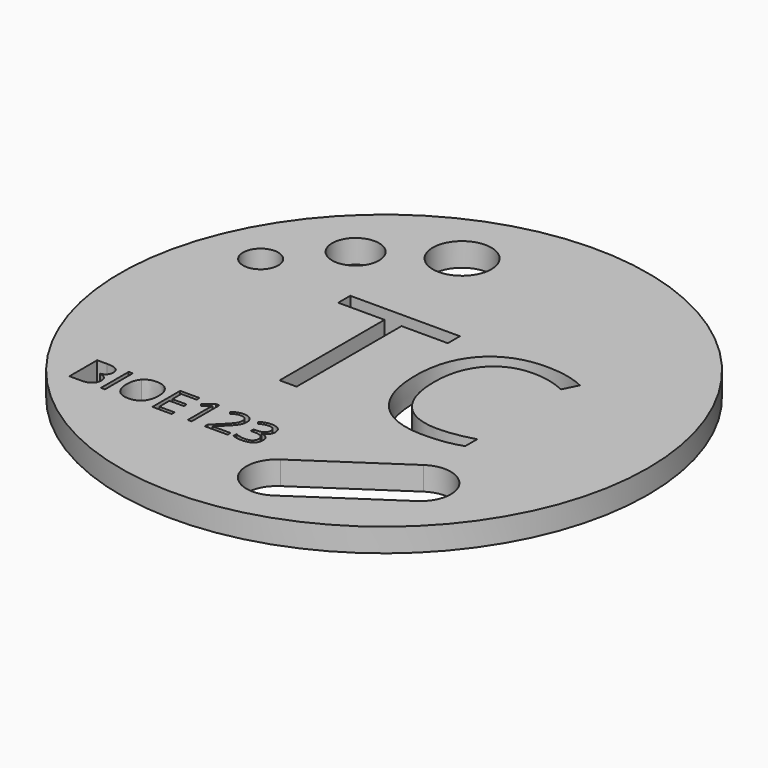
from build123d import *

# Parameters (mm, degrees)
F0_R     = 22.5
F0_W     = 0.3439178534
F0_H     = 2.9592479699
F0_R_2   = 1.5
F0_R_3   = 2
F0_R_4   = 2.5
F1_DEPTH = 2


with BuildPart() as f1:
    # F0 (on Top) → F1 (new body)
    with BuildSketch(Plane.XY):
        Circle(F0_R)
        with BuildLine():
            Line((-15.8512231653, -13.7136103585), (-15.8512231653, -10.7543623887))
            Line((-15.8512231653, -10.7543623887), (-15.0150688363, -10.7543623887))
            add(Edge.make_bspline(
                [(-15.0150688363, -10.7543623887), (-14.4263281043, -10.7543623887), (-14.1630463578, -10.9305312326)],
                knots=[0, 0, 0, 1, 1, 1], degree=2))
            add(Edge.make_bspline(
                [(-14.1630463578, -10.9305312326), (-13.8997646113, -11.1067000765), (-13.8997646113, -11.4868879859)],
                knots=[0, 0, 0, 1, 1, 1], degree=2))
            add(Edge.make_bspline(
                [(-13.8997646113, -11.4868879859), (-13.8997646113, -11.7504935722), (-14.0464640346, -11.9214809795)],
                knots=[0, 0, 0, 1, 1, 1], degree=2))
            add(Edge.make_bspline(
                [(-14.0464640346, -11.9214809795), (-14.193163458, -12.0924683869), (-14.4749040723, -12.1429873936)],
                knots=[0, 0, 0, 1, 1, 1], degree=2))
            Line((-14.4749040723, -12.1429873936), (-14.4749040723, -12.1630654603))
            add(Edge.make_bspline(
                [(-14.4749040723, -12.1630654603), (-13.8006696366, -12.2783524244), (-13.8006696366, -12.8716269134)],
                knots=[0, 0, 0, 1, 1, 1], degree=2))
            add(Edge.make_bspline(
                [(-13.8006696366, -12.8716269134), (-13.8006696366, -13.2680068122), (-14.0688089799, -13.4908085854)],
                knots=[0, 0, 0, 1, 1, 1], degree=2))
            add(Edge.make_bspline(
                [(-14.0688089799, -13.4908085854), (-14.3369483232, -13.7136103585), (-14.8188219256, -13.7136103585)],
                knots=[0, 0, 0, 1, 1, 1], degree=2))
            Line((-14.8188219256, -13.7136103585), (-15.8512231653, -13.7136103585))
        make_face(mode=Mode.SUBTRACT)
        with Locations((-12.9933370486, -12.2339863736)):
            Rectangle(F0_W, F0_H, mode=Mode.SUBTRACT)
        with BuildLine():
            add(Edge.make_bspline(
                [(-9.7993052335, -11.1125291926), (-9.4411384295, -11.5173289259), (-9.4411384295, -12.2297764564)],
                knots=[0, 0, 0, 1, 1, 1], degree=2))
            add(Edge.make_bspline(
                [(-9.4411384295, -12.2297764564), (-9.4411384295, -12.9402809482), (-9.8006005926, -13.3473475599)],
                knots=[0, 0, 0, 1, 1, 1], degree=2))
            add(Edge.make_bspline(
                [(-9.8006005926, -13.3473475599), (-10.1600627557, -13.7544141716), (-10.7993224945, -13.7544141716)],
                knots=[0, 0, 0, 1, 1, 1], degree=2))
            add(Edge.make_bspline(
                [(-10.7993224945, -13.7544141716), (-11.4528311838, -13.7544141716), (-11.8080834297, -13.3544720352)],
                knots=[0, 0, 0, 1, 1, 1], degree=2))
            add(Edge.make_bspline(
                [(-11.8080834297, -13.3544720352), (-12.1633356756, -12.9545298988), (-12.1633356756, -12.2258903789)],
                knots=[0, 0, 0, 1, 1, 1], degree=2))
            add(Edge.make_bspline(
                [(-12.1633356756, -12.2258903789), (-12.1633356756, -11.5030799753), (-11.8071119103, -11.1054047173)],
                knots=[0, 0, 0, 1, 1, 1], degree=2))
            add(Edge.make_bspline(
                [(-11.8071119103, -11.1054047173), (-11.4508881451, -10.7077294594), (-10.795436417, -10.7077294594)],
                knots=[0, 0, 0, 1, 1, 1], degree=2))
            add(Edge.make_bspline(
                [(-10.795436417, -10.7077294594), (-10.1574720374, -10.7077294594), (-9.7993052335, -11.1125291926)],
                knots=[0, 0, 0, 1, 1, 1], degree=2))
        make_face(mode=Mode.SUBTRACT)
        Polygon((-7.1321607511, -13.4059625613), (-7.1321607511, -13.7136103585), (-8.781800624, -13.7136103585), (-8.781800624, -10.7543623887), (-7.1321607511, -10.7543623887), (-7.1321607511, -11.0600671472), (-8.4378827706, -11.0600671472), (-8.4378827706, -12.0134514789), (-7.211177659, -12.0134514789), (-7.211177659, -12.3172131988), (-8.4378827706, -12.3172131988), (-8.4378827706, -13.4059625613), align=None, mode=Mode.SUBTRACT)
        with BuildLine():
            Line((-5.4365356285, -10.7543623887), (-5.4365356285, -13.7136103585))
            Line((-5.4365356285, -13.7136103585), (-5.7642614926, -13.7136103585))
            Line((-5.7642614926, -13.7136103585), (-5.7642614926, -11.6047656683))
            add(Edge.make_bspline(
                [(-5.7642614926, -11.6047656683), (-5.7642614926, -11.341160082), (-5.7480695032, -11.1067000765)],
                knots=[0, 0, 0, 1, 1, 1], degree=2))
            add(Edge.make_bspline(
                [(-5.7480695032, -11.1067000765), (-5.7901686755, -11.1494469283), (-5.8429545607, -11.1957560178)],
                knots=[0, 0, 0, 1, 1, 1], degree=2))
            add(Edge.make_bspline(
                [(-5.8429545607, -11.1957560178), (-5.8957404459, -11.2420651073), (-6.3245043234, -11.5905167176)],
                knots=[0, 0, 0, 1, 1, 1], degree=2))
            Line((-6.3245043234, -11.5905167176), (-6.502616206, -11.3599427896))
            Line((-6.502616206, -11.3599427896), (-5.719571602, -10.7543623887))
            Line((-5.719571602, -10.7543623887), (-5.4365356285, -10.7543623887))
        make_face(mode=Mode.SUBTRACT)
        with BuildLine():
            Line((-2.3658867721, -13.4020764838), (-2.3658867721, -13.7136103585))
            Line((-2.3658867721, -13.7136103585), (-4.3108685303, -13.7136103585))
            Line((-4.3108685303, -13.7136103585), (-4.3108685303, -13.4240975893))
            Line((-4.3108685303, -13.4240975893), (-3.5317100038, -12.6410529853))
            add(Edge.make_bspline(
                [(-3.5317100038, -12.6410529853), (-3.1754862385, -12.2802954631), (-3.0621423132, -12.1264715645)],
                knots=[0, 0, 0, 1, 1, 1], degree=2))
            add(Edge.make_bspline(
                [(-3.0621423132, -12.1264715645), (-2.9487983879, -11.9726476658), (-2.8921264253, -11.8269197619)],
                knots=[0, 0, 0, 1, 1, 1], degree=2))
            add(Edge.make_bspline(
                [(-2.8921264253, -11.8269197619), (-2.8354544626, -11.6811918579), (-2.8354544626, -11.5134428484)],
                knots=[0, 0, 0, 1, 1, 1], degree=2))
            add(Edge.make_bspline(
                [(-2.8354544626, -11.5134428484), (-2.8354544626, -11.2763921246), (-2.9792393279, -11.137788696)],
                knots=[0, 0, 0, 1, 1, 1], degree=2))
            add(Edge.make_bspline(
                [(-2.9792393279, -11.137788696), (-3.1230241931, -10.9991852673), (-3.3782099449, -10.9991852673)],
                knots=[0, 0, 0, 1, 1, 1], degree=2))
            add(Edge.make_bspline(
                [(-3.3782099449, -10.9991852673), (-3.5621509437, -10.9991852673), (-3.7273092349, -11.0600671472)],
                knots=[0, 0, 0, 1, 1, 1], degree=2))
            add(Edge.make_bspline(
                [(-3.7273092349, -11.0600671472), (-3.8924675261, -11.1209490271), (-4.0945435529, -11.2809258817)],
                knots=[0, 0, 0, 1, 1, 1], degree=2))
            Line((-4.0945435529, -11.2809258817), (-4.2726554355, -11.0522949923))
            add(Edge.make_bspline(
                [(-4.2726554355, -11.0522949923), (-3.8639696248, -10.7122632164), (-3.3820960224, -10.7122632164)],
                knots=[0, 0, 0, 1, 1, 1], degree=2))
            add(Edge.make_bspline(
                [(-3.3820960224, -10.7122632164), (-2.9649903773, -10.7122632164), (-2.7282634933, -10.9256736358)],
                knots=[0, 0, 0, 1, 1, 1], degree=2))
            add(Edge.make_bspline(
                [(-2.7282634933, -10.9256736358), (-2.4915366093, -11.1390840551), (-2.4915366093, -11.4991938978)],
                knots=[0, 0, 0, 1, 1, 1], degree=2))
            add(Edge.make_bspline(
                [(-2.4915366093, -11.4991938978), (-2.4915366093, -11.7809345122), (-2.6495704251, -12.0561983308)],
                knots=[0, 0, 0, 1, 1, 1], degree=2))
            add(Edge.make_bspline(
                [(-2.6495704251, -12.0561983308), (-2.807604241, -12.3314621494), (-3.2402541959, -12.7524538719)],
                knots=[0, 0, 0, 1, 1, 1], degree=2))
            Line((-3.2402541959, -12.7524538719), (-3.887933769, -13.3858844945))
            Line((-3.887933769, -13.3858844945), (-3.887933769, -13.4020764838))
            Line((-3.887933769, -13.4020764838), (-2.3658867721, -13.4020764838))
        make_face(mode=Mode.SUBTRACT)
        with BuildLine():
            add(Edge.make_bspline(
                [(-0.3464218629, -10.9094816464), (-0.1074281004, -11.1067000765), (-0.1074281004, -11.4506179298)],
                knots=[0, 0, 0, 1, 1, 1], degree=2))
            add(Edge.make_bspline(
                [(-0.1074281004, -11.4506179298), (-0.1074281004, -11.7343015829), (-0.2664334356, -11.9143565042)],
                knots=[0, 0, 0, 1, 1, 1], degree=2))
            add(Edge.make_bspline(
                [(-0.2664334356, -11.9143565042), (-0.4254387708, -12.0944114256), (-0.7168945787, -12.1552933055)],
                knots=[0, 0, 0, 1, 1, 1], degree=2))
            Line((-0.7168945787, -12.1552933055), (-0.7168945787, -12.1714852948))
            add(Edge.make_bspline(
                [(-0.7168945787, -12.1714852948), (-0.3606708135, -12.2155275058), (-0.1887118868, -12.3978493056)],
                knots=[0, 0, 0, 1, 1, 1], degree=2))
            add(Edge.make_bspline(
                [(-0.1887118868, -12.3978493056), (-0.0167529601, -12.5801711055), (-0.0167529601, -12.8755129908)],
                knots=[0, 0, 0, 1, 1, 1], degree=2))
            add(Edge.make_bspline(
                [(-0.0167529601, -12.8755129908), (-0.0167529601, -13.2984477521), (-0.3101518068, -13.5264309619)],
                knots=[0, 0, 0, 1, 1, 1], degree=2))
            add(Edge.make_bspline(
                [(-0.3101518068, -13.5264309619), (-0.6035506534, -13.7544141716), (-1.1437154175, -13.7544141716)],
                knots=[0, 0, 0, 1, 1, 1], degree=2))
            add(Edge.make_bspline(
                [(-1.1437154175, -13.7544141716), (-1.3788231025, -13.7544141716), (-1.5740984938, -13.7187917951)],
                knots=[0, 0, 0, 1, 1, 1], degree=2))
            add(Edge.make_bspline(
                [(-1.5740984938, -13.7187917951), (-1.7693738852, -13.6831694186), (-1.9533148839, -13.5944373171)],
                knots=[0, 0, 0, 1, 1, 1], degree=2))
            Line((-1.9533148839, -13.5944373171), (-1.9533148839, -13.2744836079))
            add(Edge.make_bspline(
                [(-1.9533148839, -13.2744836079), (-1.7609540507, -13.3696925052), (-1.5433337141, -13.4192399925)],
                knots=[0, 0, 0, 1, 1, 1], degree=2))
            add(Edge.make_bspline(
                [(-1.5433337141, -13.4192399925), (-1.3257133775, -13.4687874799), (-1.1314095056, -13.4687874799)],
                knots=[0, 0, 0, 1, 1, 1], degree=2))
            add(Edge.make_bspline(
                [(-1.1314095056, -13.4687874799), (-0.3645568909, -13.4687874799), (-0.3645568909, -12.867740836)],
                knots=[0, 0, 0, 1, 1, 1], degree=2))
            add(Edge.make_bspline(
                [(-0.3645568909, -12.867740836), (-0.3645568909, -12.3288714311), (-1.2104264135, -12.3288714311)],
                knots=[0, 0, 0, 1, 1, 1], degree=2))
            Line((-1.2104264135, -12.3288714311), (-1.5018822214, -12.3288714311))
            Line((-1.5018822214, -12.3288714311), (-1.5018822214, -12.0400063414))
            Line((-1.5018822214, -12.0400063414), (-1.2065403361, -12.0400063414))
            add(Edge.make_bspline(
                [(-1.2065403361, -12.0400063414), (-0.860679444, -12.0400063414), (-0.6582795774, -11.8871539622)],
                knots=[0, 0, 0, 1, 1, 1], degree=2))
            add(Edge.make_bspline(
                [(-0.6582795774, -11.8871539622), (-0.4558797107, -11.7343015829), (-0.4558797107, -11.4629238417)],
                knots=[0, 0, 0, 1, 1, 1], degree=2))
            add(Edge.make_bspline(
                [(-0.4558797107, -11.4629238417), (-0.4558797107, -11.2465988643), (-0.6045221728, -11.1228920658)],
                knots=[0, 0, 0, 1, 1, 1], degree=2))
            add(Edge.make_bspline(
                [(-0.6045221728, -11.1228920658), (-0.7531646348, -10.9991852673), (-1.0083503867, -10.9991852673)],
                knots=[0, 0, 0, 1, 1, 1], degree=2))
            add(Edge.make_bspline(
                [(-1.0083503867, -10.9991852673), (-1.2026542586, -10.9991852673), (-1.3746131853, -11.0519711525)],
                knots=[0, 0, 0, 1, 1, 1], degree=2))
            add(Edge.make_bspline(
                [(-1.3746131853, -11.0519711525), (-1.546572112, -11.1047570378), (-1.7674308464, -11.2465988643)],
                knots=[0, 0, 0, 1, 1, 1], degree=2))
            Line((-1.7674308464, -11.2465988643), (-1.9371228946, -11.0199110137))
            add(Edge.make_bspline(
                [(-1.9371228946, -11.0199110137), (-1.7551249345, -10.8761261484), (-1.5174265312, -10.7941946824)],
                knots=[0, 0, 0, 1, 1, 1], degree=2))
            add(Edge.make_bspline(
                [(-1.5174265312, -10.7941946824), (-1.2797281278, -10.7122632164), (-1.0161225415, -10.7122632164)],
                knots=[0, 0, 0, 1, 1, 1], degree=2))
            add(Edge.make_bspline(
                [(-1.0161225415, -10.7122632164), (-0.5854156254, -10.7122632164), (-0.3464218629, -10.9094816464)],
                knots=[0, 0, 0, 1, 1, 1], degree=2))
        make_face(mode=Mode.SUBTRACT)
        with BuildLine():
            ThreePointArc((5.5131327112, -18.6424922176), (1.8943729824, -17.9318023112), (2.6050628888, -14.3130425824))
            Line((2.6050628888, -14.3130425824), (10.5440868888, -8.9804395824))
            ThreePointArc((10.5440868888, -8.9804395824), (13.2246049651, -8.8438625718), (14.6058509, -11.1451644))
            ThreePointArc((14.6058509, -11.1451644), (14.2994236282, -12.3716475651), (13.4521567112, -13.3098892176))
            Line((13.4521567112, -13.3098892176), (5.5131327112, -18.6424922176))
        make_face(mode=Mode.SUBTRACT)
        with Locations((-16.474186, 7.4392282)):
            Circle(F0_R_2, mode=Mode.SUBTRACT)
        Polygon((-3.1064147414, 5.7385194519), (-3.1064147414, -5.4386734), (-4.5550575055, -5.4386734), (-4.5550575055, 5.7385194519), (-8.5026772411, 5.7385194519), (-8.5026772411, 7.0262019089), (0.8412049942, 7.0262019089), (0.8412049942, 5.7385194519), align=None, mode=Mode.SUBTRACT)
        with Locations((-12.1815606, 12.1917714)):
            Circle(F0_R_3, mode=Mode.SUBTRACT)
        with Locations((-6.0492386, 15.87119)):
            Circle(F0_R_4, mode=Mode.SUBTRACT)
        with BuildLine():
            add(Edge.make_bspline(
                [(10.8862194147, 5.2447259674), (9.4703143402, 5.9076641814), (8.0544092657, 5.9076641814)],
                knots=[0, 0, 0, 1, 1, 1], degree=2))
            add(Edge.make_bspline(
                [(8.0544092657, 5.9076641814), (6.0001192444, 5.9076641814), (4.8106498562, 4.5395015709)],
                knots=[0, 0, 0, 1, 1, 1], degree=2))
            add(Edge.make_bspline(
                [(4.8106498562, 4.5395015709), (3.621180468, 3.1713389604), (3.621180468, 0.792400184)],
                knots=[0, 0, 0, 1, 1, 1], degree=2))
            add(Edge.make_bspline(
                [(3.621180468, 0.792400184), (3.621180468, -1.6520139715), (4.7683636738, -2.9874388924)],
                knots=[0, 0, 0, 1, 1, 1], degree=2))
            add(Edge.make_bspline(
                [(4.7683636738, -2.9874388924), (5.9155468796, -4.3228638134), (8.0380404209, -4.3228638134)],
                knots=[0, 0, 0, 1, 1, 1], degree=2))
            add(Edge.make_bspline(
                [(8.0380404209, -4.3228638134), (9.3420917227, -4.3228638134), (11.0144420322, -3.853623596)],
                knots=[0, 0, 0, 1, 1, 1], degree=2))
            Line((11.0144420322, -3.853623596), (11.0144420322, -5.1222090674))
            add(Edge.make_bspline(
                [(11.0144420322, -5.1222090674), (9.7185751529, -5.6105462703), (7.8170610162, -5.6105462703)],
                knots=[0, 0, 0, 1, 1, 1], degree=2))
            add(Edge.make_bspline(
                [(7.8170610162, -5.6105462703), (5.0643669504, -5.6105462703), (3.5679817224, -3.9381959608)],
                knots=[0, 0, 0, 1, 1, 1], degree=2))
            add(Edge.make_bspline(
                [(3.5679817224, -3.9381959608), (2.0715964944, -2.2658456512), (2.0715964944, 0.8114971696)],
                knots=[0, 0, 0, 1, 1, 1], degree=2))
            add(Edge.make_bspline(
                [(2.0715964944, 0.8114971696), (2.0715964944, 2.7375645734), (2.7918256652, 4.1862073375)],
                knots=[0, 0, 0, 1, 1, 1], degree=2))
            add(Edge.make_bspline(
                [(2.7918256652, 4.1862073375), (3.512054836, 5.6348501016), (4.8720330241, 6.4191905812)],
                knots=[0, 0, 0, 1, 1, 1], degree=2))
            add(Edge.make_bspline(
                [(4.8720330241, 6.4191905812), (6.2320112122, 7.2035310608), (8.0735062513, 7.2035310608)],
                knots=[0, 0, 0, 1, 1, 1], degree=2))
            add(Edge.make_bspline(
                [(8.0735062513, 7.2035310608), (10.0323113447, 7.2035310608), (11.5000510944, 6.4887581715)],
                knots=[0, 0, 0, 1, 1, 1], degree=2))
            Line((11.5000510944, 6.4887581715), (10.8862194147, 5.2447259674))
        make_face(mode=Mode.SUBTRACT)
    extrude(amount=F1_DEPTH)


solid = f1.part
